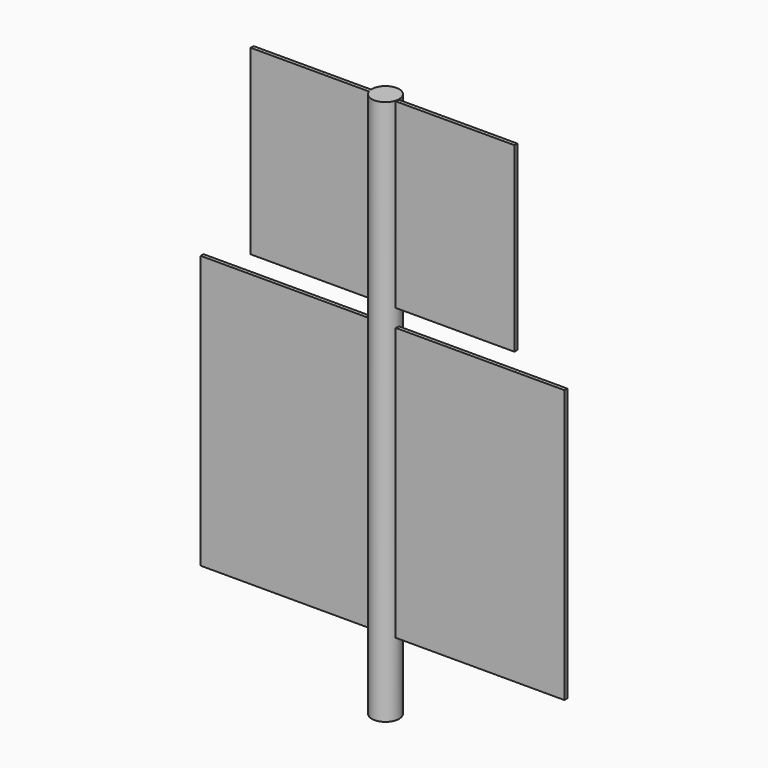
from build123d import *

# Parameters (mm, degrees)
F0_W     = 9.525
F0_H     = 381
F2_W     = 184.15
F2_H     = 127
F2_W_2   = 254
F2_H_2   = 190.5
F3_DEPTH = 2.54


with BuildPart() as f1:
    # F0 (on Front) → F1 (revolve)
    with BuildSketch(Plane.XZ):
        with Locations((4.7625, 60.951888)):
            Rectangle(F0_W, F0_H)
    revolve(axis=Axis((0, 0, 60.951888), (0, 0, 1)))

    # F2 (on Front) → F3 (join)
    with BuildSketch(Plane.XZ):
        with Locations((0, 187.531114)):
            Rectangle(F2_W, F2_H)
        with Locations((0, 16.501888)):
            Rectangle(F2_W_2, F2_H_2)
    extrude(amount=F3_DEPTH)


solid = f1.part
